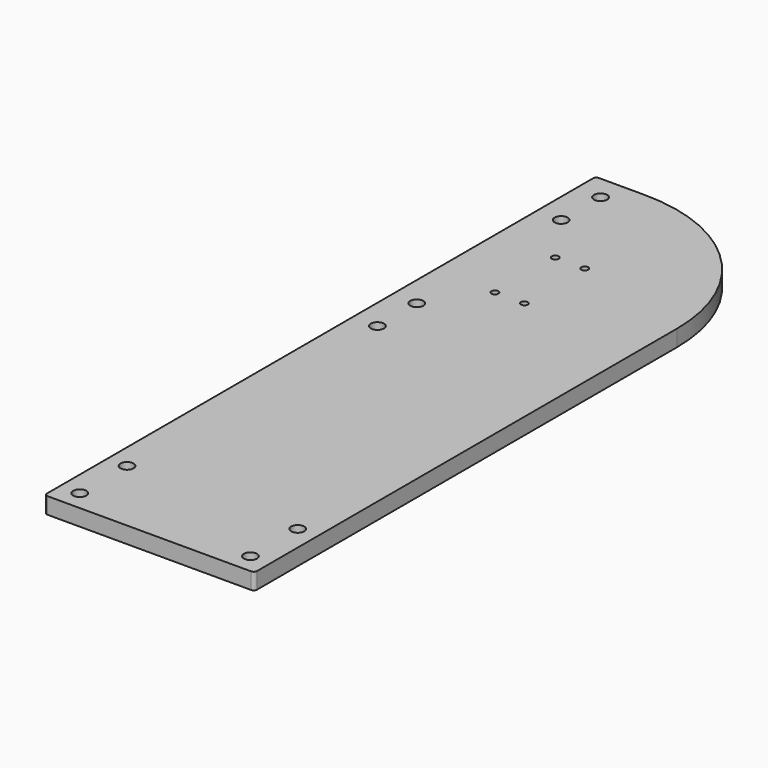
from build123d import *

# Parameters (mm, degrees)
F0_R     = 4
F0_R_2   = 2.1
F1_DEPTH = 10


with BuildPart() as f1:
    # F0 (on Top) → F1 (new body)
    with BuildSketch(Plane.XY):
        with BuildLine():
            ThreePointArc((0, 2), (0.585786, 0.585786), (2, 0))
            Line((2, 0), (126, 0))
            ThreePointArc((126, 0), (127.414214, 0.585786), (128, 2))
            Line((128, 2), (128, 322))
            ThreePointArc((128, 322), (99.296465, 391.296465), (30, 420))
            Line((30, 420), (2, 420))
            ThreePointArc((2, 420), (0.585786, 419.414214), (0, 418))
            Line((0, 418), (0, 2))
        make_face()
        with Locations((12, 12)):
            Circle(F0_R, mode=Mode.SUBTRACT)
        with Locations((12, 48)):
            Circle(F0_R, mode=Mode.SUBTRACT)
        with Locations((116, 12)):
            Circle(F0_R, mode=Mode.SUBTRACT)
        with Locations((116, 48)):
            Circle(F0_R, mode=Mode.SUBTRACT)
        with Locations((15, 235)):
            Circle(F0_R, mode=Mode.SUBTRACT)
        with Locations((15, 265)):
            Circle(F0_R, mode=Mode.SUBTRACT)
        with Locations((37, 297)):
            Circle(F0_R_2, mode=Mode.SUBTRACT)
        with Locations((55, 297)):
            Circle(F0_R_2, mode=Mode.SUBTRACT)
        with Locations((15, 375)):
            Circle(F0_R, mode=Mode.SUBTRACT)
        with Locations((15, 405)):
            Circle(F0_R, mode=Mode.SUBTRACT)
        with Locations((37, 343)):
            Circle(F0_R_2, mode=Mode.SUBTRACT)
        with Locations((55, 343)):
            Circle(F0_R_2, mode=Mode.SUBTRACT)
    extrude(amount=F1_DEPTH)


solid = f1.part
